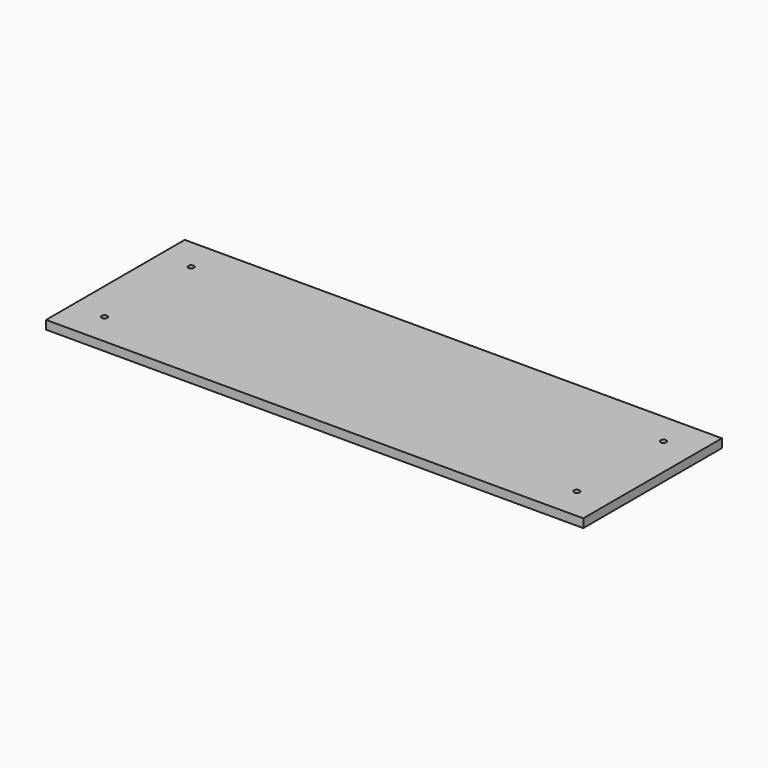
from build123d import *

# Parameters (mm, degrees)
F0_W     = 314.96
F0_H     = 101.6
F1_DEPTH = 5.08
F2_D     = 3.302


with BuildPart() as f1:
    # F0 (on Top) → F1 (new body)
    with BuildSketch(Plane.XY):
        with Locations((25.4, 0)):
            Rectangle(F0_W, F0_H)
    extrude(amount=F1_DEPTH)

    # F2 (through all)
    with Locations(Plane(origin=(0, 0, 0), x_dir=(1, 0, 0), z_dir=(0, 0, -1))):
        with Locations((-113.03, 31.75), (-113.03, -31.75), (163.83, -31.75), (163.83, 31.75)):
            Hole(F2_D / 2)


solid = f1.part
